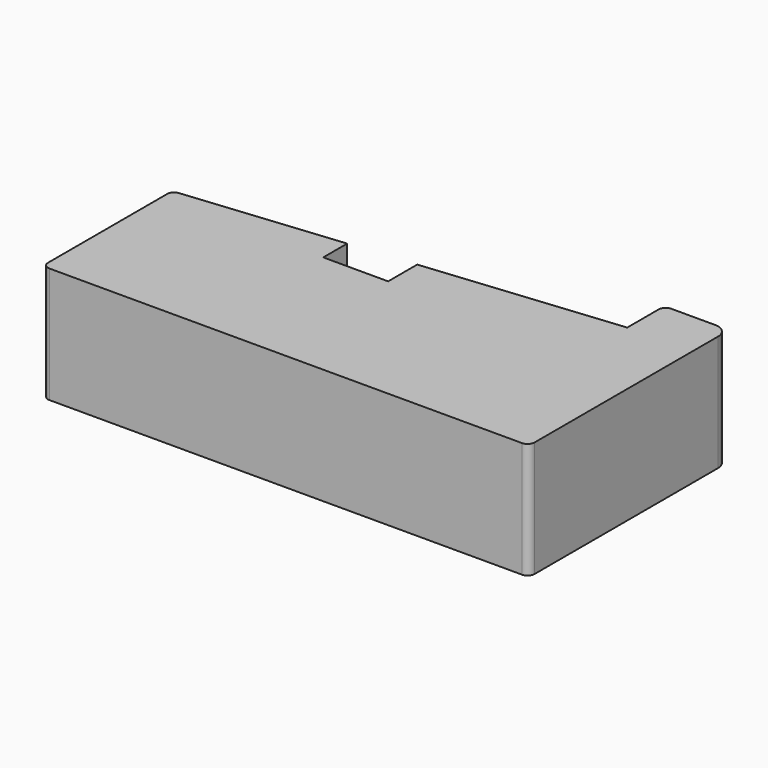
from build123d import *

# Parameters (mm, degrees)
F1_DEPTH = 25


with BuildPart() as f1:
    # F0 (on Top) → F1 (new body)
    with BuildSketch(Plane.XY):
        with BuildLine():
            Line((-64.266129, -44), (-16.766129, -44))
            Line((-16.766129, -44), (37.733871, -44))
            ThreePointArc((37.733871, -44), (38.794531, -43.56066), (39.233871, -42.5))
            Line((39.233871, -42.5), (39.233871, 7))
            ThreePointArc((39.233871, 7), (38.355191, 9.12132), (36.233871, 10))
            Line((36.233871, 10), (26.733871, 10))
            ThreePointArc((26.733871, 10), (25.67321, 9.56066), (25.233871, 8.5))
            Line((25.233871, 8.5), (25.233871, 0))
            Line((25.233871, 0), (-16.766129, -4.153846))
            Line((-16.766129, -4.153846), (-16.766129, -12))
            Line((-16.766129, -12), (-30.766129, -12))
            Line((-30.766129, -12), (-30.766129, -5.538462))
            Line((-30.766129, -5.538462), (-64.413761, -8.866249))
            ThreePointArc((-64.413761, -8.866249), (-65.37776, -9.351854), (-65.766129, -10.358967))
            Line((-65.766129, -10.358967), (-65.766129, -42.5))
            ThreePointArc((-65.766129, -42.5), (-65.32679, -43.56066), (-64.266129, -44))
        make_face()
    extrude(amount=F1_DEPTH)


solid = f1.part
